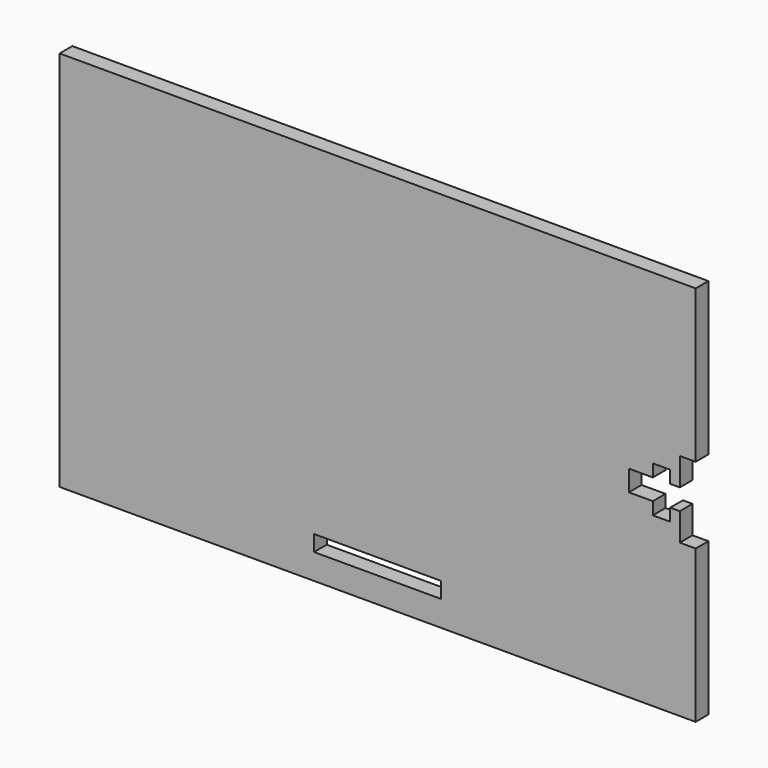
from build123d import *

# Parameters (mm, degrees)
F0_W     = 25.4
F0_H     = 3.175
F1_DEPTH = 3.175


with BuildPart() as f1:
    # F0 (on Front) → F1 (new body)
    with BuildSketch(Plane.XZ):
        Polygon((-63.5, -38.1), (63.5, -38.1), (63.5, -7.62), (60.325, -7.62), (60.325, -2.0828), (58.42, -2.0828), (58.42, -4.572), (54.9402, -4.572), (54.9402, -2.0828), (50.165, -2.0828), (50.165, 2.0828), (54.9402, 2.0828), (54.9402, 4.572), (58.42, 4.572), (58.42, 2.0828), (60.325, 2.0828), (60.325, 7.62), (63.5, 7.62), (63.5, 38.1), (-63.5, 38.1), align=None)
        with Locations((0, -31.4325)):
            Rectangle(F0_W, F0_H, mode=Mode.SUBTRACT)
    extrude(amount=F1_DEPTH)


solid = f1.part
